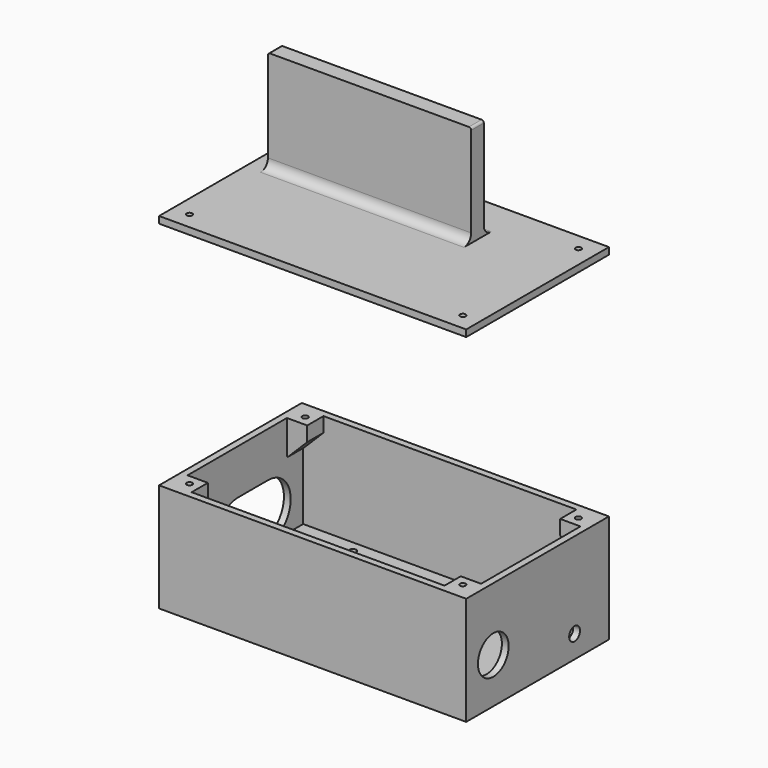
from build123d import *

# Parameters (mm, degrees)
SKETCH001_W     = 136
SKETCH001_H     = 79
PAD_DEPTH       = 3
SKETCH_W        = 136
SKETCH_H        = 79
SKETCH_W_2      = 130
SKETCH_H_2      = 73
PAD001_DEPTH    = 48
SKETCH002_W     = 115
SKETCH002_H     = 3
PAD002_DEPTH    = 30
SKETCH003_R     = 1.5
POCKET_DEPTH    = 48.001
POCKET001_DEPTH = 3
SKETCH006_R     = 8.5
POCKET002_DEPTH = 3
SKETCH007_R     = 3
POCKET003_DEPTH = 3
SKETCH009_R     = 2.5
PAD003_DEPTH    = 1
SKETCH008_R     = 1.25
POCKET004_DEPTH = 5
SKETCH010_W     = 9
SKETCH010_H     = 15
PAD004_DEPTH    = 9
CHAMFER_SIZE    = 8.5
CHAMFER001_SIZE = 8.5
SKETCH011_W     = 9
SKETCH011_H     = 15
PAD005_DEPTH    = 9
CHAMFER002_SIZE = 8.5
CHAMFER003_SIZE = 8.5
SKETCH012_R     = 1.25
HOLE_DEPTH      = 5
HOLE_TIPS_R     = 1.25
FILLET_R        = 2
FILLET010_R     = 2
CHAMFER004_SIZE = 0.9
CHAMFER005_SIZE = 0.9
SKETCH013_W     = 136
SKETCH013_H     = 79
PAD006_DEPTH    = 3
SKETCH014_R     = 1.25
HOLE001_DEPTH   = 3.001
SKETCH016_W     = 90
SKETCH016_H     = 7
PAD007_DEPTH    = 45
SKETCH017_W     = 88
SKETCH017_H     = 6
POCKET005_DEPTH = 40
FILLET006_R     = 4
FILLET007_R     = 4
FILLET008_R     = 1
FILLET009_R     = 1


with BuildPart() as obj1:
    # Sketch001 → Pad (new body)
    with BuildSketch(Plane.XY):
        with Locations((68, 39.5)):
            Rectangle(SKETCH001_W, SKETCH001_H)
    extrude(amount=PAD_DEPTH)

    # Sketch → Pad001 (join)
    with BuildSketch(Plane.XY):
        with Locations((68, 39.5)):
            Rectangle(SKETCH_W, SKETCH_H)
        with Locations((68, 39.5)):
            Rectangle(SKETCH_W_2, SKETCH_H_2, mode=Mode.SUBTRACT)
    extrude(amount=PAD001_DEPTH)

    # Sketch002 → Pad002 (join)
    with BuildSketch(Plane.XY):
        with Locations((60.5, 15.5)):
            Rectangle(SKETCH002_W, SKETCH002_H)
    extrude(amount=PAD002_DEPTH)

    # Sketch003 → Pocket (cut, through all)
    with BuildSketch(Plane.XY):
        with Locations((29, 71)):
            Circle(SKETCH003_R)
        with Locations((104.5, 71)):
            Circle(SKETCH003_R)
        with Locations((27, 23)):
            Circle(SKETCH003_R)
        with Locations((106.5, 23)):
            Circle(SKETCH003_R)
    extrude(amount=POCKET_DEPTH, mode=Mode.SUBTRACT)

    # Sketch004 → Pocket001 (cut)
    with BuildSketch(Plane.YZ):
        with BuildLine():
            ThreePointArc((40, 28), (27.5, 15.5), (40, 3))
            Line((40, 3), (56.601632, 3))
            ThreePointArc((56.601632, 3), (69.101632, 15.5), (56.601632, 28))
            Line((40, 28), (56.601632, 28))
        make_face()
    extrude(amount=POCKET001_DEPTH, mode=Mode.SUBTRACT)

    # Sketch006 (on Face9 of Pocket001) → Pocket002 (cut)
    with BuildSketch(Plane.YZ.offset(136)):
        with Locations((15, 20)):
            Circle(SKETCH006_R)
    extrude(amount=-POCKET002_DEPTH, mode=Mode.SUBTRACT)

    # Sketch007 (on Face9 of Pocket002) → Pocket003 (cut)
    with BuildSketch(Plane.YZ.offset(136)):
        with Locations((60, 10)):
            Circle(SKETCH007_R)
    extrude(amount=-POCKET003_DEPTH, mode=Mode.SUBTRACT)

    # Sketch009 (on Face26 of Pocket003) → Pad003 (join)
    with BuildSketch(Plane(origin=(133, 0, 0), x_dir=(0, -1, 0), z_dir=(-1, 0, 0))):
        with Locations((-48, 35)):
            Circle(SKETCH009_R)
        with Locations((-28, 35)):
            Circle(SKETCH009_R)
    extrude(amount=PAD003_DEPTH)

    # Sketch008 (on Face26 of Pocket003) → Pocket004 (cut)
    with BuildSketch(Plane(origin=(133, 0, 0), x_dir=(0, -1, 0), z_dir=(-1, 0, 0))):
        with Locations((-48, 35)):
            Circle(SKETCH008_R)
        with Locations((-28, 35)):
            Circle(SKETCH008_R)
    extrude(amount=POCKET004_DEPTH, mode=Mode.SUBTRACT)

    # Sketch010 → Pad004 (join)
    with BuildSketch(Plane.XZ.offset(-76)):
        with Locations((7.5, 40.5)):
            Rectangle(SKETCH010_W, SKETCH010_H)
        with Locations((128.5, 40.5)):
            Rectangle(SKETCH010_W, SKETCH010_H)
    extrude(amount=PAD004_DEPTH)

    # Chamfer
    chamfer_edges = [obj1.edges().sort_by_distance(p)[0] for p in [
        (12, 71.5, 33),
    ]]
    chamfer(chamfer_edges, length=CHAMFER_SIZE)

    # Chamfer001
    chamfer001_edges = [obj1.edges().sort_by_distance(p)[0] for p in [
        (124, 71.5, 33),
    ]]
    chamfer(chamfer001_edges, length=CHAMFER001_SIZE)

    # Sketch011 (on Face19 of Chamfer001) → Pad005 (join)
    with BuildSketch(Plane(origin=(0, 3, 0), x_dir=(-1, 0, 0), z_dir=(0, 1, 0))):
        with Locations((-128.5, 40.5)):
            Rectangle(SKETCH011_W, SKETCH011_H)
        with Locations((-7.5, 40.5)):
            Rectangle(SKETCH011_W, SKETCH011_H)
    extrude(amount=PAD005_DEPTH)

    # Chamfer002
    chamfer002_edges = [obj1.edges().sort_by_distance(p)[0] for p in [
        (124, 7.5, 33),
    ]]
    chamfer(chamfer002_edges, length=CHAMFER002_SIZE)

    # Chamfer003
    chamfer003_edges = [obj1.edges().sort_by_distance(p)[0] for p in [
        (12, 7.5, 33),
    ]]
    chamfer(chamfer003_edges, length=CHAMFER003_SIZE)

    # Sketch012 (on Face19 of Chamfer003) → Hole (cut)
    with BuildSketch(Plane.XY.offset(48)):
        with Locations((7.5, 71.5)):
            Circle(SKETCH012_R)
        with Locations((128.5, 71.5)):
            Circle(SKETCH012_R)
        with Locations((128.5, 7.5)):
            Circle(SKETCH012_R)
        with Locations((7.5, 7.5)):
            Circle(SKETCH012_R)
    extrude(amount=-HOLE_DEPTH, mode=Mode.SUBTRACT)

    # Hole tips → Hole tip 1 section 0
    with BuildSketch(Plane.XY.offset(43), mode=Mode.PRIVATE) as hole_tip_1_s0:
        with Locations((7.5, 71.5)):
            Circle(HOLE_TIPS_R)
    loft([hole_tip_1_s0.sketch, Vertex(7.5, 71.5, 42.248924)], mode=Mode.SUBTRACT)

    # Hole tips → Hole tip 2 section 0
    with BuildSketch(Plane.XY.offset(43), mode=Mode.PRIVATE) as hole_tip_2_s0:
        with Locations((128.5, 71.5)):
            Circle(HOLE_TIPS_R)
    loft([hole_tip_2_s0.sketch, Vertex(128.5, 71.5, 42.248924)], mode=Mode.SUBTRACT)

    # Hole tips → Hole tip 3 section 0
    with BuildSketch(Plane.XY.offset(43), mode=Mode.PRIVATE) as hole_tip_3_s0:
        with Locations((128.5, 7.5)):
            Circle(HOLE_TIPS_R)
    loft([hole_tip_3_s0.sketch, Vertex(128.5, 7.5, 42.248924)], mode=Mode.SUBTRACT)

    # Hole tips → Hole tip 4 section 0
    with BuildSketch(Plane.XY.offset(43), mode=Mode.PRIVATE) as hole_tip_4_s0:
        with Locations((7.5, 7.5)):
            Circle(HOLE_TIPS_R)
    loft([hole_tip_4_s0.sketch, Vertex(7.5, 7.5, 42.248924)], mode=Mode.SUBTRACT)

    # Fillet
    fillet_edges = [obj1.edges().sort_by_distance(p)[0] for p in [
        (60.5, 17, 3),
    ]]
    fillet(fillet_edges, radius=FILLET_R)

    # Fillet010
    fillet010_edges = [obj1.edges().sort_by_distance(p)[0] for p in [
        (60.5, 14, 3),
    ]]
    fillet(fillet010_edges, radius=FILLET010_R)

    # Chamfer004
    chamfer004_edges = [obj1.edges().sort_by_distance(p)[0] for p in [
        (132, 50.5, 35),
    ]]
    chamfer(chamfer004_edges, length=CHAMFER004_SIZE)

    # Chamfer005
    chamfer005_edges = [obj1.edges().sort_by_distance(p)[0] for p in [
        (132, 30.5, 35),
    ]]
    chamfer(chamfer005_edges, length=CHAMFER005_SIZE)


with BuildPart() as couvercle:
    # Sketch013 → Pad006 (new body)
    with BuildSketch(Plane.XY):
        with Locations((68, 39.5)):
            Rectangle(SKETCH013_W, SKETCH013_H)
    extrude(amount=PAD006_DEPTH)

    # Sketch014 (on Face6 of Pad006) → Hole001 (cut, through all)
    with BuildSketch(Plane.XY.offset(3)):
        with Locations((7.5, 71.5)):
            Circle(SKETCH014_R)
        with Locations((128.5, 71.5)):
            Circle(SKETCH014_R)
        with Locations((7.5, 7.5)):
            Circle(SKETCH014_R)
        with Locations((128.5, 7.5)):
            Circle(SKETCH014_R)
    extrude(amount=-HOLE001_DEPTH, mode=Mode.SUBTRACT)

    # Sketch016 → Pad007 (join)
    with BuildSketch(Plane.XY.offset(3)):
        with Locations((52, 55)):
            Rectangle(SKETCH016_W, SKETCH016_H)
    extrude(amount=PAD007_DEPTH)

    # Sketch017 (on Face4 of Pad007) → Pocket005 (cut)
    with BuildSketch(Plane(origin=(0, 0, 0), x_dir=(1, 0, 0), z_dir=(0, 0, -1))):
        with Locations((52, -55)):
            Rectangle(SKETCH017_W, SKETCH017_H)
    extrude(amount=-POCKET005_DEPTH, mode=Mode.SUBTRACT)

    # Fillet006
    fillet006_edges = [couvercle.edges().sort_by_distance(p)[0] for p in [
        (52, 51.5, 3),
    ]]
    fillet(fillet006_edges, radius=FILLET006_R)

    # Fillet007
    fillet007_edges = [couvercle.edges().sort_by_distance(p)[0] for p in [
        (52, 58.5, 3),
    ]]
    fillet(fillet007_edges, radius=FILLET007_R)

    # Fillet008
    fillet008_edges = [couvercle.edges().sort_by_distance(p)[0] for p in [
        (97, 55, 48),
    ]]
    fillet(fillet008_edges, radius=FILLET008_R)

    # Fillet009
    fillet009_edges = [couvercle.edges().sort_by_distance(p)[0] for p in [
        (7, 55, 48),
    ]]
    fillet(fillet009_edges, radius=FILLET009_R)


with BuildPart() as couvercle_1:
    # Body placement: moved
    add(couvercle.part.moved(Location((0, 0, 150))))


solid = Compound([obj1.part, couvercle_1.part])
